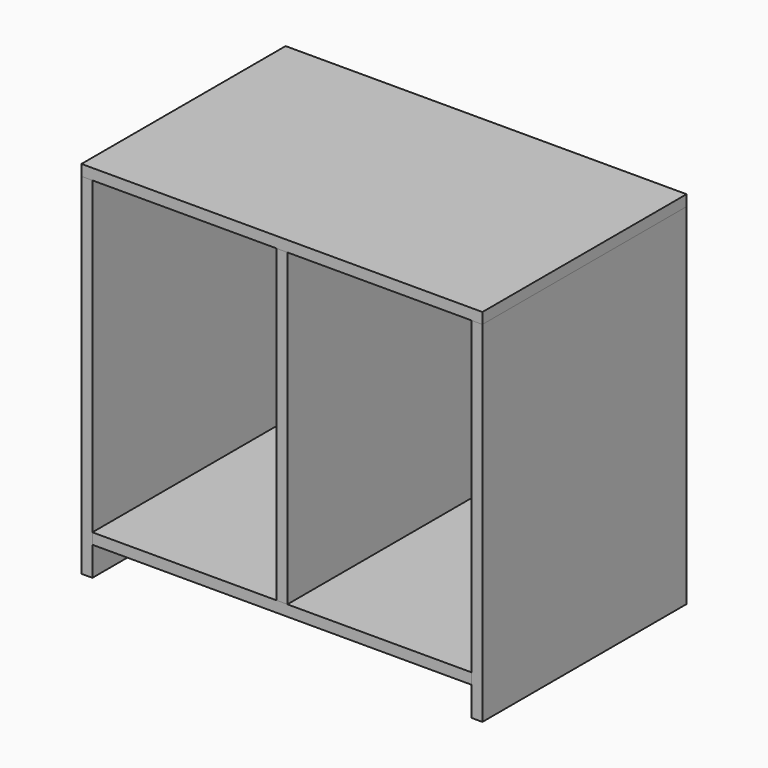
from build123d import *

# Parameters (mm, degrees)
F0_W     = 660.4
F0_H     = 444.5
F1_DEPTH = 19.05
F2_W     = 444.5
F2_H     = 609.6
F3_DEPTH = 19.05
F5_W     = 698.5
F5_H     = 444.5
F6_DEPTH = 19.05
F7_W     = 444.5
F7_H     = 539.75
F8_DEPTH = 9.525


with BuildPart() as f1:
    # F0 (on Top) → F1 (new body)
    with BuildSketch(Plane.XY):
        Rectangle(F0_W, F0_H)
    extrude(amount=F1_DEPTH)


with BuildPart() as f3:
    # F2 (on face) → F3 (new body)
    with BuildSketch(Plane.YZ.offset(330.2)):
        with Locations((0, 254)):
            Rectangle(F2_W, F2_H)
    extrude(amount=F3_DEPTH)


with BuildPart() as f4_1:
    # F4: copy of F3
    add(f3.part.moved(Location((-679.45, 0, 0))))


with BuildPart() as f6:
    # F5 (on face) → F6 (new body)
    with BuildSketch(Plane.XY.offset(558.8)):
        Rectangle(F5_W, F5_H)
    extrude(amount=F6_DEPTH)


with BuildPart() as f8:
    # F7 (on Right) → F8 (new body, symmetric)
    with BuildSketch(Plane.YZ):
        with Locations((0, 288.925)):
            Rectangle(F7_W, F7_H)
    extrude(amount=F8_DEPTH, both=True)


solid = Compound([f1.part, f3.part, f4_1.part, f6.part, f8.part])
